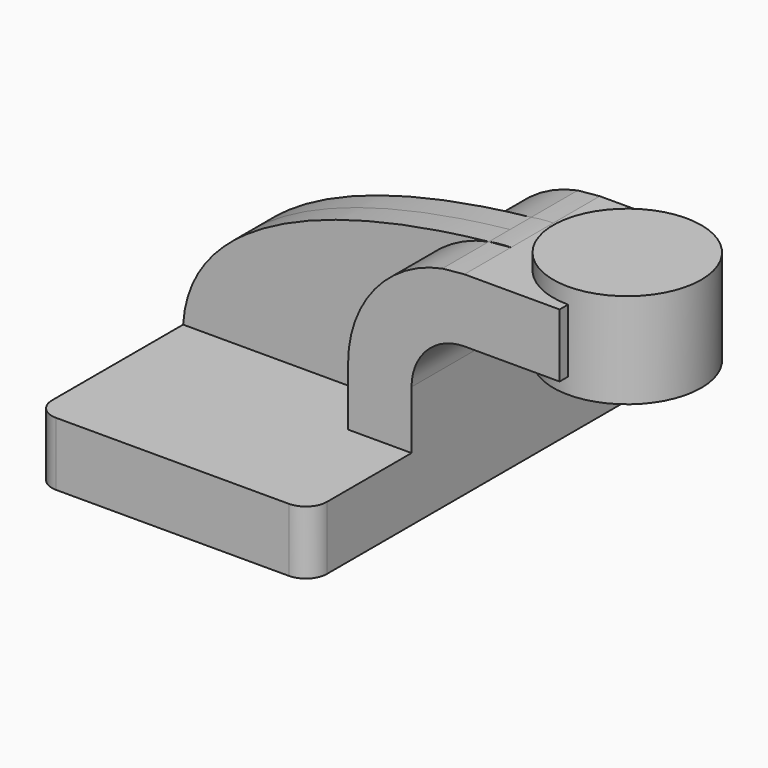
from build123d import *

# Parameters (mm, degrees)
F1_DEPTH = 63.5
F0_W     = 28.575
F0_H     = 19.05
F2_DEPTH = 25.4
F3_DEPTH = 7.9375
F5_R     = 6.35


with BuildPart() as f1:
    # F0 (on Front) → F1 (new body, symmetric)
    with BuildSketch(Plane.XZ):
        Polygon((41.275, -9.525), (41.275, 9.525), (22.225, 9.525), (-41.275, 9.525), (-41.275, -9.525), align=None)
    extrude(amount=F1_DEPTH, both=True)

    # F0 (on Front) → F2 (join, symmetric)
    with BuildSketch(Plane.XZ):
        with BuildLine():
            Line((22.225, 9.525), (41.275, 9.525))
            Line((41.275, 9.525), (41.275, 27.0002))
            ThreePointArc((41.275, 27.0002), (45.9246798487, 38.2255201513), (57.15, 42.8752))
            Line((57.15, 42.8752), (57.15, 61.9252))
            add(Edge.make_bspline(
                [(50.521689096, 61.29044817), (52.7261125358, 61.5243781465), (54.9369393602, 61.735707874), (57.15, 61.9252)],
                knots=[106.439422351, 106.439422351, 106.439422351, 106.439422351, 111.5045361635, 111.5045361635, 111.5045361635, 111.5045361635], degree=3))
            ThreePointArc((50.521689096, 61.29044817), (30.2125782291, 49.2292560605), (22.225, 27.0002))
            Line((22.225, 27.0002), (22.225, 9.525))
        make_face()
        with Locations((71.4375, 52.4002)):
            Rectangle(F0_W, F0_H)
    extrude(amount=F2_DEPTH, both=True)

    # F0 (on Front) → F3 (join, symmetric)
    with BuildSketch(Plane.XZ):
        with BuildLine():
            ThreePointArc((57.15, 61.9252), (53.8206826779, 61.7661498816), (50.521689096, 61.29044817))
            add(Edge.make_bspline(
                [(50.521689096, 61.29044817), (52.7261125358, 61.5243781465), (54.9369393602, 61.735707874), (57.15, 61.9252)],
                knots=[106.439422351, 106.439422351, 106.439422351, 106.439422351, 111.5045361635, 111.5045361635, 111.5045361635, 111.5045361635], degree=3))
        make_face()
        Polygon((41.275, -9.525), (41.275, 9.525), (22.225, 9.525), (-41.275, 9.525), (-41.275, -9.525), align=None)
        with BuildLine():
            Line((-41.275, 9.525), (22.225, 9.525))
            Line((22.225, 9.525), (22.225, 27.0002))
            ThreePointArc((22.225, 27.0002), (30.2125782291, 49.2292560605), (50.521689096, 61.29044817))
            add(Edge.make_bspline(
                [(-41.275, 9.525), (-39.2990761683, 41.4785222008), (4.1974471864, 56.3745918841), (50.521689096, 61.29044817)],
                knots=[0, 0, 0, 0, 106.439422351, 106.439422351, 106.439422351, 106.439422351], degree=3))
        make_face()
    extrude(amount=F3_DEPTH, both=True)

    # F0 (on Front) → F4 (revolve)
    with BuildSketch(Plane.XZ):
        Polygon((85.725, 61.9252), (85.725, 42.8752), (85.725, 38.1), (107.95, 38.1), (107.95, 66.675), (85.725, 66.675), align=None)
    revolve(axis=Axis((85.725, 0, 52.3875), (0, 0, 1)))

    # F5
    f5_edges = [f1.edges().sort_by_distance(p)[0] for p in [
        (-41.275, 63.5, 0),
        (41.275, 63.5, 0),
        (-41.275, -63.5, 0),
        (41.275, -63.5, 0),
    ]]
    fillet(f5_edges, radius=F5_R)


solid = f1.part
